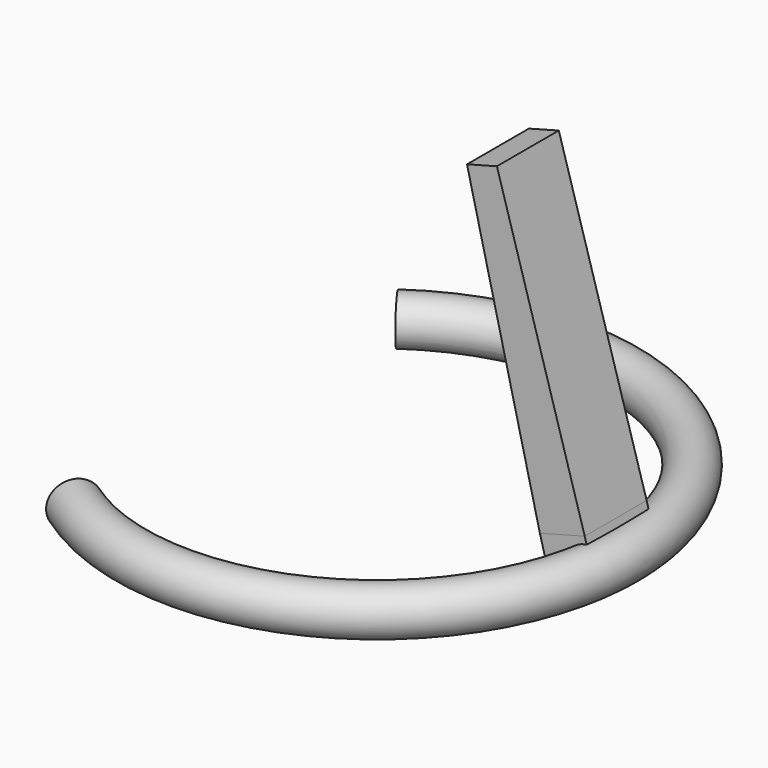
from build123d import *

# Parameters (mm, degrees)
F0_R          = 15
F2_ANGLE_BACK = 125
F2_ANGLE      = 250
F6_W          = 30
F6_H          = 50
F7_DEPTH      = 25
F9_W          = 20
F9_H          = 50
F7_FACE_W     = 30
F7_FACE_H     = 50


with BuildPart() as f2:
    # F0 (on Front) → F2 (revolve)
    with BuildSketch(Plane.XZ, mode=Mode.PRIVATE) as f2_sk:
        with Locations((105.5854605263, 0)):
            Circle(F0_R)
    revolve(f2_sk.sketch.rotate(Axis((-53.4410737455, 0, -2.1003899164), (0, 0, -1)), -F2_ANGLE_BACK), axis=Axis((-53.4410737455, 0, -2.1003899164), (0, 0, -1)), revolution_arc=F2_ANGLE)

    # F6 (on line) → F7 (join)
    with BuildSketch(Plane(origin=(1.8972807651, 0, -7.0807482116), x_dir=(0.9659258263, 0, 0.2588190451), z_dir=(0.2588190451, 0, -0.9659258263))):
        with Locations((87.3579102681, 0)):
            Rectangle(F6_W, F6_H)
    extrude(amount=F7_DEPTH)

    # F9 (on offset) → F10 section 0
    with BuildSketch(Plane(origin=(-49.8665282554, 0, 186.1044170462), x_dir=(0.9659258263, 0, 0.2588190451), z_dir=(0.2588190451, 0, -0.9659258263))):
        with Locations((86.933324366, -0.3083702177)):
            Rectangle(F9_W, F9_H)
    # F7_face (on face) → F10 section 1
    with BuildSketch(Plane(origin=(86.2785424237, 0, 15.5291427062), x_dir=(0.9659258263, 0, 0.2588190451), z_dir=(-0.2588190451, 0, 0.9659258263))):
        Rectangle(F7_FACE_W, F7_FACE_H)
    loft()


solid = f2.part
